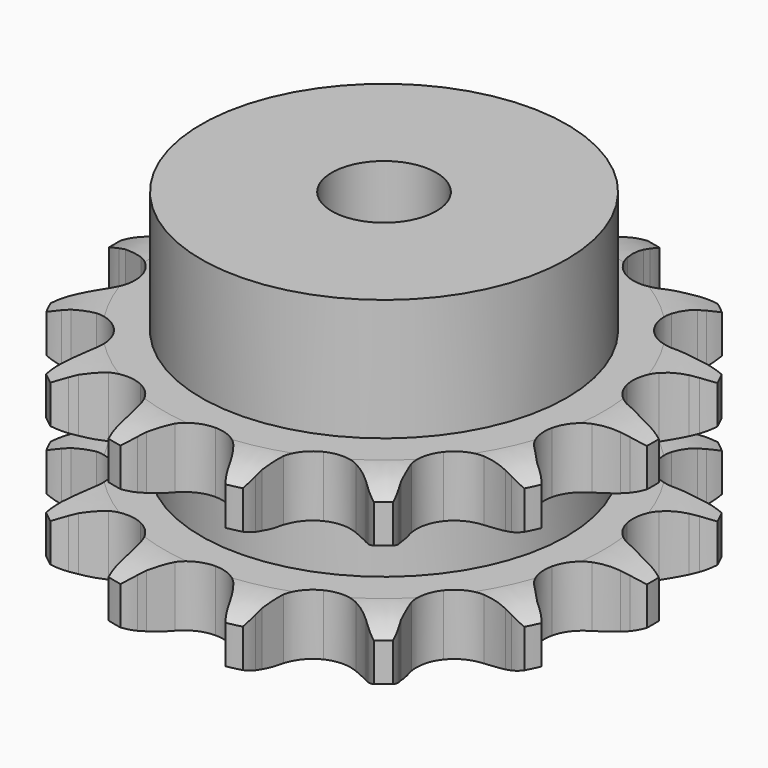
from build123d import *

# Parameters (mm, degrees)
PAD_DEPTH         = 21
SKETCH001_R       = 21
PAD001_DEPTH      = 35
SKETCH002_R       = 6
POCKET_DEPTH      = 0.001
POCKET_DEPTH_BACK = 35.001


with BuildPart() as part:
    # Sprocket → Pad (new body)
    with BuildSketch(Plane.XY):
        with BuildLine():
            ThreePointArc((-7.17871, 31.451983), (-6.034114, 30.303576), (-5.179097, 28.925938))
            Line((-5.179097, 28.925938), (-4.787351, 28.096657))
            ThreePointArc((-4.787351, 28.096657), (-4.133422, 26.906461), (-3.339318, 25.804831))
            ThreePointArc((-3.339318, 25.804831), (-1.847671, 24.637931), (0, 24.222266))
            ThreePointArc((0, 24.222266), (1.847671, 24.637931), (3.339318, 25.804831))
            ThreePointArc((3.339318, 25.804831), (4.133422, 26.906461), (4.787351, 28.096657))
            Line((4.787351, 28.096657), (5.179097, 28.925938))
            ThreePointArc((5.179097, 28.925938), (6.034114, 30.303576), (7.17871, 31.451983))
            ThreePointArc((7.17871, 31.451983), (7.71168, 29.920683), (7.884289, 28.308496))
            Line((7.884289, 28.308496), (7.877429, 27.391367))
            ThreePointArc((7.877429, 27.391367), (7.950192, 26.035308), (8.187675, 24.698225))
            ThreePointArc((8.187675, 24.698225), (9.025303, 22.999683), (10.509647, 21.823508))
            ThreePointArc((10.509647, 21.823508), (12.354692, 21.396334), (14.204918, 21.800473))
            Line((14.204918, 21.800473), (16.503937, 23.23706))
            ThreePointArc((16.503937, 23.23706), (16.854366, 23.533002), (17.2167, 23.814244))
            ThreePointArc((17.2167, 23.814244), (18.584778, 24.684474), (20.114298, 25.222532))
            ThreePointArc((20.114298, 25.222532), (19.930081, 23.611631), (19.386095, 22.084209))
            Line((19.386095, 22.084209), (18.981987, 21.260881))
            ThreePointArc((18.981987, 21.260881), (18.459172, 20.007543), (18.092998, 18.699833))
            ThreePointArc((18.092998, 18.699833), (18.110706, 16.806066), (18.93773, 15.102336))
            ThreePointArc((18.93773, 15.102336), (20.414714, 13.916931), (22.25706, 13.478265))
            Line((22.25706, 13.478265), (24.951716, 13.775078))
            ThreePointArc((24.951716, 13.775078), (25.395846, 13.889666), (25.844324, 13.985846))
            ThreePointArc((25.844324, 13.985846), (27.454498, 14.17631), (29.066003, 13.997449))
            ThreePointArc((29.066003, 13.997449), (28.201085, 12.626006), (27.048247, 11.485873))
            Line((27.048247, 11.485873), (26.32693, 10.919416))
            ThreePointArc((26.32693, 10.919416), (25.312087, 10.017039), (24.414782, 8.997709))
            ThreePointArc((24.414782, 8.997709), (23.609061, 7.283802), (23.614963, 5.389961))
            ThreePointArc((23.614963, 5.389961), (24.431352, 3.681109), (25.900918, 2.486521))
            Line((25.900918, 2.486521), (28.457501, 1.584772))
            ThreePointArc((28.457501, 1.584772), (28.907367, 1.495312), (29.353162, 1.38738))
            ThreePointArc((29.353162, 1.38738), (30.886519, 0.860354), (32.26083, 0))
            ThreePointArc((32.26083, 0), (30.886519, -0.860354), (29.353162, -1.38738))
            Line((29.353162, -1.38738), (28.457501, -1.584772))
            ThreePointArc((28.457501, -1.584772), (27.151633, -1.957463), (25.900918, -2.486521))
            ThreePointArc((25.900918, -2.486521), (24.431352, -3.681109), (23.614963, -5.389961))
            ThreePointArc((23.614963, -5.389961), (23.609061, -7.283802), (24.414782, -8.997709))
            Line((24.414782, -8.997709), (26.32693, -10.919416))
            ThreePointArc((26.32693, -10.919416), (26.69343, -11.195207), (27.048247, -11.485873))
            ThreePointArc((27.048247, -11.485873), (28.201085, -12.626006), (29.066003, -13.997449))
            ThreePointArc((29.066003, -13.997449), (27.454498, -14.17631), (25.844324, -13.985846))
            Line((25.844324, -13.985846), (24.951716, -13.775078))
            ThreePointArc((24.951716, -13.775078), (23.613465, -13.544265), (22.25706, -13.478265))
            ThreePointArc((22.25706, -13.478265), (20.414714, -13.916931), (18.93773, -15.102336))
            ThreePointArc((18.93773, -15.102336), (18.110706, -16.806066), (18.092998, -18.699833))
            Line((18.092998, -18.699833), (18.981987, -21.260881))
            ThreePointArc((18.981987, -21.260881), (19.192531, -21.668378), (19.386095, -22.084209))
            ThreePointArc((19.386095, -22.084209), (19.930081, -23.611631), (20.114298, -25.222532))
            ThreePointArc((20.114298, -25.222532), (18.584778, -24.684474), (17.2167, -23.814244))
            Line((17.2167, -23.814244), (16.503937, -23.23706))
            ThreePointArc((16.503937, -23.23706), (15.39836, -22.44846), (14.204918, -21.800473))
            ThreePointArc((14.204918, -21.800473), (12.354692, -21.396334), (10.509647, -21.823508))
            ThreePointArc((10.509647, -21.823508), (9.025303, -22.999683), (8.187675, -24.698225))
            Line((8.187675, -24.698225), (7.877429, -27.391367))
            ThreePointArc((7.877429, -27.391367), (7.890316, -27.849861), (7.884289, -28.308496))
            ThreePointArc((7.884289, -28.308496), (7.71168, -29.920683), (7.17871, -31.451983))
            ThreePointArc((7.17871, -31.451983), (6.034114, -30.303576), (5.179097, -28.925938))
            Line((5.179097, -28.925938), (4.787351, -28.096657))
            ThreePointArc((4.787351, -28.096657), (4.133422, -26.906461), (3.339318, -25.804831))
            ThreePointArc((3.339318, -25.804831), (1.847671, -24.637931), (0, -24.222266))
            ThreePointArc((0, -24.222266), (-1.847671, -24.637931), (-3.339318, -25.804831))
            Line((-3.339318, -25.804831), (-4.787351, -28.096657))
            ThreePointArc((-4.787351, -28.096657), (-4.974673, -28.515337), (-5.179097, -28.925938))
            ThreePointArc((-5.179097, -28.925938), (-6.034114, -30.303576), (-7.17871, -31.451983))
            ThreePointArc((-7.17871, -31.451983), (-7.71168, -29.920683), (-7.884289, -28.308496))
            Line((-7.884289, -28.308496), (-7.877429, -27.391367))
            ThreePointArc((-7.877429, -27.391367), (-7.950192, -26.035308), (-8.187675, -24.698225))
            ThreePointArc((-8.187675, -24.698225), (-9.025303, -22.999683), (-10.509647, -21.823508))
            ThreePointArc((-10.509647, -21.823508), (-12.354692, -21.396334), (-14.204918, -21.800473))
            Line((-14.204918, -21.800473), (-16.503937, -23.23706))
            ThreePointArc((-16.503937, -23.23706), (-16.854366, -23.533002), (-17.2167, -23.814244))
            ThreePointArc((-17.2167, -23.814244), (-18.584778, -24.684474), (-20.114298, -25.222532))
            ThreePointArc((-20.114298, -25.222532), (-19.930081, -23.611631), (-19.386095, -22.084209))
            Line((-19.386095, -22.084209), (-18.981987, -21.260881))
            ThreePointArc((-18.981987, -21.260881), (-18.459172, -20.007543), (-18.092998, -18.699833))
            ThreePointArc((-18.092998, -18.699833), (-18.110706, -16.806066), (-18.93773, -15.102336))
            ThreePointArc((-18.93773, -15.102336), (-20.414714, -13.916931), (-22.25706, -13.478265))
            Line((-22.25706, -13.478265), (-24.951716, -13.775078))
            ThreePointArc((-24.951716, -13.775078), (-25.395846, -13.889666), (-25.844324, -13.985846))
            ThreePointArc((-25.844324, -13.985846), (-27.454498, -14.17631), (-29.066003, -13.997449))
            ThreePointArc((-29.066003, -13.997449), (-28.201085, -12.626006), (-27.048247, -11.485873))
            Line((-27.048247, -11.485873), (-26.32693, -10.919416))
            ThreePointArc((-26.32693, -10.919416), (-25.312087, -10.017039), (-24.414782, -8.997709))
            ThreePointArc((-24.414782, -8.997709), (-23.609061, -7.283802), (-23.614963, -5.389961))
            ThreePointArc((-23.614963, -5.389961), (-24.431352, -3.681109), (-25.900918, -2.486521))
            Line((-25.900918, -2.486521), (-28.457501, -1.584772))
            ThreePointArc((-28.457501, -1.584772), (-28.907367, -1.495312), (-29.353162, -1.38738))
            ThreePointArc((-29.353162, -1.38738), (-30.886519, -0.860354), (-32.26083, 0))
            ThreePointArc((-32.26083, 0), (-30.886519, 0.860354), (-29.353162, 1.38738))
            Line((-29.353162, 1.38738), (-28.457501, 1.584772))
            ThreePointArc((-28.457501, 1.584772), (-27.151633, 1.957463), (-25.900918, 2.486521))
            ThreePointArc((-25.900918, 2.486521), (-24.431352, 3.681109), (-23.614963, 5.389961))
            ThreePointArc((-23.614963, 5.389961), (-23.609061, 7.283802), (-24.414782, 8.997709))
            Line((-24.414782, 8.997709), (-26.32693, 10.919416))
            ThreePointArc((-26.32693, 10.919416), (-26.69343, 11.195207), (-27.048247, 11.485873))
            ThreePointArc((-27.048247, 11.485873), (-28.201085, 12.626006), (-29.066003, 13.997449))
            ThreePointArc((-29.066003, 13.997449), (-27.454498, 14.17631), (-25.844324, 13.985846))
            Line((-25.844324, 13.985846), (-24.951716, 13.775078))
            ThreePointArc((-24.951716, 13.775078), (-23.613465, 13.544265), (-22.25706, 13.478265))
            ThreePointArc((-22.25706, 13.478265), (-20.414714, 13.916931), (-18.93773, 15.102336))
            ThreePointArc((-18.93773, 15.102336), (-18.110706, 16.806066), (-18.092998, 18.699833))
            Line((-18.092998, 18.699833), (-18.981987, 21.260881))
            ThreePointArc((-18.981987, 21.260881), (-19.192531, 21.668378), (-19.386095, 22.084209))
            ThreePointArc((-19.386095, 22.084209), (-19.930081, 23.611631), (-20.114298, 25.222532))
            ThreePointArc((-20.114298, 25.222532), (-18.584778, 24.684474), (-17.2167, 23.814244))
            Line((-17.2167, 23.814244), (-16.503937, 23.23706))
            ThreePointArc((-16.503937, 23.23706), (-15.39836, 22.44846), (-14.204918, 21.800473))
            ThreePointArc((-14.204918, 21.800473), (-12.354692, 21.396334), (-10.509647, 21.823508))
            ThreePointArc((-10.509647, 21.823508), (-9.025303, 22.999683), (-8.187675, 24.698225))
            Line((-8.187675, 24.698225), (-7.877429, 27.391367))
            ThreePointArc((-7.877429, 27.391367), (-7.890316, 27.849861), (-7.884289, 28.308496))
            ThreePointArc((-7.884289, 28.308496), (-7.71168, 29.920683), (-7.17871, 31.451983))
        make_face()
    extrude(amount=PAD_DEPTH)

    # Sketch → Groove (revolve, cut)
    with BuildSketch(Plane.XZ):
        with BuildLine():
            ThreePointArc((25.233431, 0), (28.14032, 0.329167), (30.9, 1.3))
            Line((30.9, 1.3), (30.9, 5.7))
            ThreePointArc((30.9, 5.7), (28.14032, 6.670833), (25.233431, 7))
            Line((21, 7), (25.233431, 7))
            Line((21, 14), (21, 7))
            Line((25.233431, 14), (21, 14))
            ThreePointArc((25.233431, 14), (28.14032, 14.329167), (30.9, 15.3))
            Line((30.9, 15.3), (30.9, 19.7))
            ThreePointArc((30.9, 19.7), (28.14032, 20.670833), (25.233431, 21))
            Line((25.233431, 21), (35.233431, 21))
            Line((35.233431, 21), (35.233431, 0))
            Line((25.233431, 0), (35.233431, 0))
        make_face()
    revolve(axis=Axis((0, 0, 0), (0, 0, 1)), mode=Mode.SUBTRACT)

    # Sketch001 → Pad001 (join)
    with BuildSketch(Plane.XY):
        Circle(SKETCH001_R)
    extrude(amount=PAD001_DEPTH)

    # Sketch002 → Pocket (cut, two sides)
    with BuildSketch(Plane.XY) as pocket_sk:
        Circle(SKETCH002_R)
    extrude(amount=-POCKET_DEPTH, mode=Mode.SUBTRACT)
    extrude(pocket_sk.sketch, amount=POCKET_DEPTH_BACK, mode=Mode.SUBTRACT)


solid = part.part
